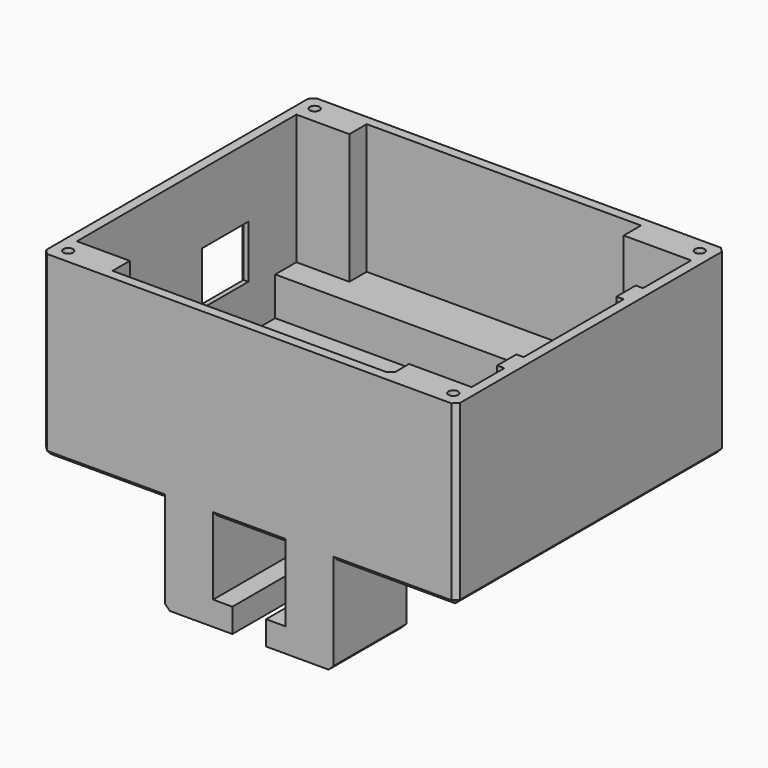
from build123d import *

# Parameters (mm, degrees)
BOX028_W          = 15
BOX028_H          = 3
BOX028_DEPTH      = 3
BOX001_W          = 86
BOX001_H          = 2
BOX001_DEPTH      = 37
BOX002_W          = 86
BOX002_H          = 2
BOX002_DEPTH      = 37
BOX004_W          = 2
BOX004_H          = 70
BOX004_DEPTH      = 37
CYLINDER_R        = 1
CYLINDER_DEPTH    = 10
BOX005_W          = 13
BOX005_H          = 6.5
BOX005_DEPTH      = 37
CYLINDER001_R     = 1
CYLINDER001_DEPTH = 10
BOX007_W          = 13
BOX007_H          = 6.5
BOX007_DEPTH      = 37
CYLINDER002_R     = 1
CYLINDER002_DEPTH = 10
BOX006_W          = 15
BOX006_H          = 6.5
BOX006_DEPTH      = 37
BOX009_W          = 10
BOX009_H          = 10
BOX009_DEPTH      = 11
BOX010_W          = 16
BOX010_H          = 12
BOX010_DEPTH      = 11
BOX003_W          = 2
BOX003_H          = 70
BOX003_DEPTH      = 37
BOX018_W          = 15
BOX018_H          = 35
BOX018_DEPTH      = 10
BOX019_W          = 10
BOX019_H          = 20
BOX019_DEPTH      = 20
BOX020_W          = 10
BOX020_H          = 20
BOX020_DEPTH      = 20
BOX021_W          = 14
BOX021_H          = 20
BOX021_DEPTH      = 5
BOX022_W          = 14
BOX022_H          = 20
BOX022_DEPTH      = 5
BOX023_W          = 1.5
BOX023_H          = 5
BOX023_DEPTH      = 37
BOX024_W          = 1.5
BOX024_H          = 5
BOX024_DEPTH      = 37
BOX025_W          = 23
BOX025_H          = 10
BOX025_DEPTH      = 8
BOX016_W          = 86
BOX016_H          = 12
BOX016_DEPTH      = 10
BOX026_W          = 18
BOX026_H          = 10
BOX026_DEPTH      = 8
BOX017_W          = 86
BOX017_H          = 12
BOX017_DEPTH      = 10
BOX027_W          = 8
BOX027_H          = 5
BOX027_DEPTH      = 14
CYLINDER003_R     = 1
CYLINDER003_DEPTH = 10
BOX008_W          = 16
BOX008_H          = 6.5
BOX008_DEPTH      = 37
BOX_W             = 86
BOX_H             = 70
BOX_DEPTH         = 2
CHAMFER_SIZE      = 1


with BuildPart() as cubo028:
    # Box028 → Box028 (new body)
    with BuildSketch(Plane(origin=(35.5, 29, -1), x_dir=(1, 0, 0), z_dir=(0, 0, 1))):
        with Locations((7.5, 1.5)):
            Rectangle(BOX028_W, BOX028_H)
    extrude(amount=BOX028_DEPTH)


with BuildPart() as cubo001:
    # Box001 → Box001 (new body)
    with BuildSketch(Plane.XY):
        with Locations((43, 1)):
            Rectangle(BOX001_W, BOX001_H)
    extrude(amount=BOX001_DEPTH)


with BuildPart() as cubo002:
    # Box002 → Box002 (new body)
    with BuildSketch(Plane(origin=(0, 68, 0), x_dir=(1, 0, 0), z_dir=(0, 0, 1))):
        with Locations((43, 1)):
            Rectangle(BOX002_W, BOX002_H)
    extrude(amount=BOX002_DEPTH)


with BuildPart() as cubo004:
    # Box004 → Box004 (new body)
    with BuildSketch(Plane(origin=(84, 0, 0), x_dir=(1, 0, 0), z_dir=(0, 0, 1))):
        with Locations((1, 35)):
            Rectangle(BOX004_W, BOX004_H)
    extrude(amount=BOX004_DEPTH)


with BuildPart() as cilindro:
    # Cylinder → Cylinder (new body)
    with BuildSketch(Plane(origin=(3, 3, 27), x_dir=(1, 0, 0), z_dir=(0, 0, 1))):
        Circle(CYLINDER_R)
    extrude(amount=CYLINDER_DEPTH)


with BuildPart() as cut002:
    # Box005 → Box005 (new body)
    with BuildSketch(Plane.XY):
        with Locations((6.5, 3.25)):
            Rectangle(BOX005_W, BOX005_H)
    extrude(amount=BOX005_DEPTH)

    # Cut002: cut Cilindro
    add(cilindro.part, mode=Mode.SUBTRACT)


with BuildPart() as cilindro001:
    # Cylinder001 → Cylinder001 (new body)
    with BuildSketch(Plane(origin=(3, 67, 27), x_dir=(1, 0, 0), z_dir=(0, 0, 1))):
        Circle(CYLINDER001_R)
    extrude(amount=CYLINDER001_DEPTH)


with BuildPart() as cut003:
    # Box007 → Box007 (new body)
    with BuildSketch(Plane(origin=(0, 63.5, 0), x_dir=(1, 0, 0), z_dir=(0, 0, 1))):
        with Locations((6.5, 3.25)):
            Rectangle(BOX007_W, BOX007_H)
    extrude(amount=BOX007_DEPTH)

    # Cut003: cut Cilindro001
    add(cilindro001.part, mode=Mode.SUBTRACT)


with BuildPart() as cilindro002:
    # Cylinder002 → Cylinder002 (new body)
    with BuildSketch(Plane(origin=(83, 3, 27), x_dir=(1, 0, 0), z_dir=(0, 0, 1))):
        Circle(CYLINDER002_R)
    extrude(amount=CYLINDER002_DEPTH)


with BuildPart() as cut004:
    # Box006 → Box006 (new body)
    with BuildSketch(Plane(origin=(71, 0, 0), x_dir=(1, 0, 0), z_dir=(0, 0, 1))):
        with Locations((7.5, 3.25)):
            Rectangle(BOX006_W, BOX006_H)
    extrude(amount=BOX006_DEPTH)

    # Cut004: cut Cilindro002
    add(cilindro002.part, mode=Mode.SUBTRACT)


with BuildPart() as cubo009:
    # Box009 → Box009 (new body)
    with BuildSketch(Plane(origin=(-1, 9, 11.5), x_dir=(1, 0, 0), z_dir=(0, 0, 1))):
        with Locations((5, 5)):
            Rectangle(BOX009_W, BOX009_H)
    extrude(amount=BOX009_DEPTH)


with BuildPart() as cubo010:
    # Box010 → Box010 (new body)
    with BuildSketch(Plane(origin=(-1, 39, 11.5), x_dir=(1, 0, 0), z_dir=(0, 0, 1))):
        with Locations((8, 6)):
            Rectangle(BOX010_W, BOX010_H)
    extrude(amount=BOX010_DEPTH)


with BuildPart() as cut006:
    # Box003 → Box003 (new body)
    with BuildSketch(Plane.XY):
        with Locations((1, 35)):
            Rectangle(BOX003_W, BOX003_H)
    extrude(amount=BOX003_DEPTH)

    # Cut: cut Cubo010
    add(cubo010.part, mode=Mode.SUBTRACT)

    # Cut006: cut Cubo009
    add(cubo009.part, mode=Mode.SUBTRACT)


with BuildPart() as cubo018:
    # Box018 → Box018 (new body)
    with BuildSketch(Plane(origin=(70, 15, 0), x_dir=(1, 0, 0), z_dir=(0, 0, 1))):
        with Locations((7.5, 17.5)):
            Rectangle(BOX018_W, BOX018_H)
    extrude(amount=BOX018_DEPTH)


with BuildPart() as cubo019:
    # Box019 → Box019 (new body)
    with BuildSketch(Plane(origin=(25.5, 0, -20), x_dir=(1, 0, 0), z_dir=(0, 0, 1))):
        with Locations((5, 10)):
            Rectangle(BOX019_W, BOX019_H)
    extrude(amount=BOX019_DEPTH)


with BuildPart() as cubo020:
    # Box020 → Box020 (new body)
    with BuildSketch(Plane(origin=(50.5, 0, -20), x_dir=(1, 0, 0), z_dir=(0, 0, 1))):
        with Locations((5, 10)):
            Rectangle(BOX020_W, BOX020_H)
    extrude(amount=BOX020_DEPTH)


with BuildPart() as cubo021:
    # Box021 → Box021 (new body)
    with BuildSketch(Plane(origin=(25.5, 0, -20), x_dir=(1, 0, 0), z_dir=(0, 0, 1))):
        with Locations((7, 10)):
            Rectangle(BOX021_W, BOX021_H)
    extrude(amount=BOX021_DEPTH)


with BuildPart() as cubo022:
    # Box022 → Box022 (new body)
    with BuildSketch(Plane(origin=(46.5, 0, -20), x_dir=(1, 0, 0), z_dir=(0, 0, 1))):
        with Locations((7, 10)):
            Rectangle(BOX022_W, BOX022_H)
    extrude(amount=BOX022_DEPTH)


with BuildPart() as cubo023:
    # Box023 → Box023 (new body)
    with BuildSketch(Plane(origin=(82.5, 15, 0), x_dir=(1, 0, 0), z_dir=(0, 0, 1))):
        with Locations((0.75, 2.5)):
            Rectangle(BOX023_W, BOX023_H)
    extrude(amount=BOX023_DEPTH)


with BuildPart() as cubo024:
    # Box024 → Box024 (new body)
    with BuildSketch(Plane(origin=(82.5, 46, 0), x_dir=(1, 0, 0), z_dir=(0, 0, 1))):
        with Locations((0.75, 2.5)):
            Rectangle(BOX024_W, BOX024_H)
    extrude(amount=BOX024_DEPTH)


with BuildPart() as cubo025:
    # Box025 → Box025 (new body)
    with BuildSketch(Plane(origin=(41, 2, 2), x_dir=(1, 0, 0), z_dir=(0, 0, 1))):
        with Locations((11.5, 5)):
            Rectangle(BOX025_W, BOX025_H)
    extrude(amount=BOX025_DEPTH)


with BuildPart() as cut007:
    # Box016 → Box016 (new body)
    with BuildSketch(Plane.XY):
        with Locations((43, 6)):
            Rectangle(BOX016_W, BOX016_H)
    extrude(amount=BOX016_DEPTH)

    # Cut007: cut Cubo025
    add(cubo025.part, mode=Mode.SUBTRACT)


with BuildPart() as cubo026:
    # Box026 → Box026 (new body)
    with BuildSketch(Plane(origin=(58, 58, 2), x_dir=(1, 0, 0), z_dir=(0, 0, 1))):
        with Locations((9, 5)):
            Rectangle(BOX026_W, BOX026_H)
    extrude(amount=BOX026_DEPTH)


with BuildPart() as cut008:
    # Box017 → Box017 (new body)
    with BuildSketch(Plane(origin=(0, 58, 0), x_dir=(1, 0, 0), z_dir=(0, 0, 1))):
        with Locations((43, 6)):
            Rectangle(BOX017_W, BOX017_H)
    extrude(amount=BOX017_DEPTH)

    # Cut008: cut Cubo026
    add(cubo026.part, mode=Mode.SUBTRACT)


with BuildPart() as cubo027:
    # Box027 → Box027 (new body)
    with BuildSketch(Plane(origin=(70, 63, 2), x_dir=(1, 0, 0), z_dir=(0, 0, 1))):
        with Locations((4, 2.5)):
            Rectangle(BOX027_W, BOX027_H)
    extrude(amount=BOX027_DEPTH)


with BuildPart() as cilindro003:
    # Cylinder003 → Cylinder003 (new body)
    with BuildSketch(Plane(origin=(83, 67, 27), x_dir=(1, 0, 0), z_dir=(0, 0, 1))):
        Circle(CYLINDER003_R)
    extrude(amount=CYLINDER003_DEPTH)


with BuildPart() as cut009:
    # Box008 → Box008 (new body)
    with BuildSketch(Plane(origin=(70, 63.5, 0), x_dir=(1, 0, 0), z_dir=(0, 0, 1))):
        with Locations((8, 3.25)):
            Rectangle(BOX008_W, BOX008_H)
    extrude(amount=BOX008_DEPTH)

    # Cut005: cut Cilindro003
    add(cilindro003.part, mode=Mode.SUBTRACT)

    # Cut009: cut Cubo027
    add(cubo027.part, mode=Mode.SUBTRACT)


with BuildPart() as cut010:
    # Box → Box (new body)
    with BuildSketch(Plane.XY):
        with Locations((43, 35)):
            Rectangle(BOX_W, BOX_H)
    extrude(amount=BOX_DEPTH)

    # Fusion: union Cubo001, Cubo002, Cubo004, Cut002, Cut003, Cut004, Cut006, Cubo018, Cubo019, Cubo020, Cubo021, Cubo022, Cubo023, Cubo024, Cut007, Cut008, Cut009
    add(cubo001.part)
    add(cubo002.part)
    add(cubo004.part)
    add(cut002.part)
    add(cut003.part)
    add(cut004.part)
    add(cut006.part)
    add(cubo018.part)
    add(cubo019.part)
    add(cubo020.part)
    add(cubo021.part)
    add(cubo022.part)
    add(cubo023.part)
    add(cubo024.part)
    add(cut007.part)
    add(cut008.part)
    add(cut009.part)

    # Chamfer
    chamfer_edges = [cut010.edges().sort_by_distance(p)[0] for p in [
        (12.75, 0, 0),
        (43, 0, 0),
        (73.25, 0, 0),
        (86, 0, 18.5),
        (0, 0, 18.5),
        (0, 45, 11.5),
        (0, 51, 17),
        (0, 39, 17),
        (0, 45, 22.5),
        (0, 14, 11.5),
        (0, 19, 17),
        (0, 9, 17),
        (0, 14, 22.5),
        (0, 70, 18.5),
        (0, 35, 0),
        (43, 70, 0),
        (86, 35, 0),
        (77.5, 6.5, 10),
        (71, 4.25, 10),
        (67.5, 2, 10),
        (71, 2, 23.5),
        (25.5, 20, -10),
        (25.5, 10, -20),
        (60.5, 10, -20),
        (60.5, 20, -10),
        (32.5, 20, -20),
        (53.5, 20, -20),
        (86, 70, 18.5),
        (52.5, 2, 2),
        (77, 15, 2),
    ]]
    chamfer(chamfer_edges, length=CHAMFER_SIZE)

    # Cut010: cut Cubo028
    add(cubo028.part, mode=Mode.SUBTRACT)


solid = cut010.part
